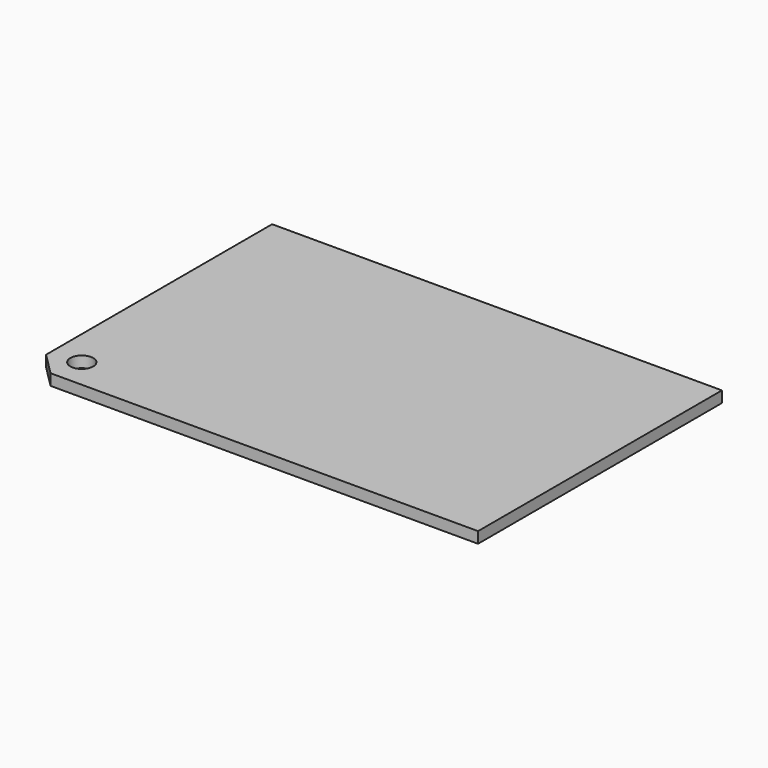
from build123d import *

# Parameters (mm, degrees)
F0_W     = 60.5
F0_H     = 41
F1_DEPTH = 1.5
F2_SIZE  = 3
F3_R     = 1.54
F4_DEPTH = 1.5


with BuildPart() as f1:
    # F0 (on Top) → F1 (new body)
    with BuildSketch(Plane.XY):
        with Locations((30.25, 20.5)):
            Rectangle(F0_W, F0_H)
    extrude(amount=F1_DEPTH)

    # F2
    f2_edges = [f1.edges().sort_by_distance(p)[0] for p in [
        (0, 0, 0.75),
    ]]
    chamfer(f2_edges, length=F2_SIZE)

    # F3 (on face) → F4 (cut, through all)
    with BuildSketch(Plane.XY.offset(1.5)):
        with Locations((4, 4)):
            Circle(F3_R)
    extrude(amount=-F4_DEPTH, mode=Mode.SUBTRACT)


solid = f1.part
